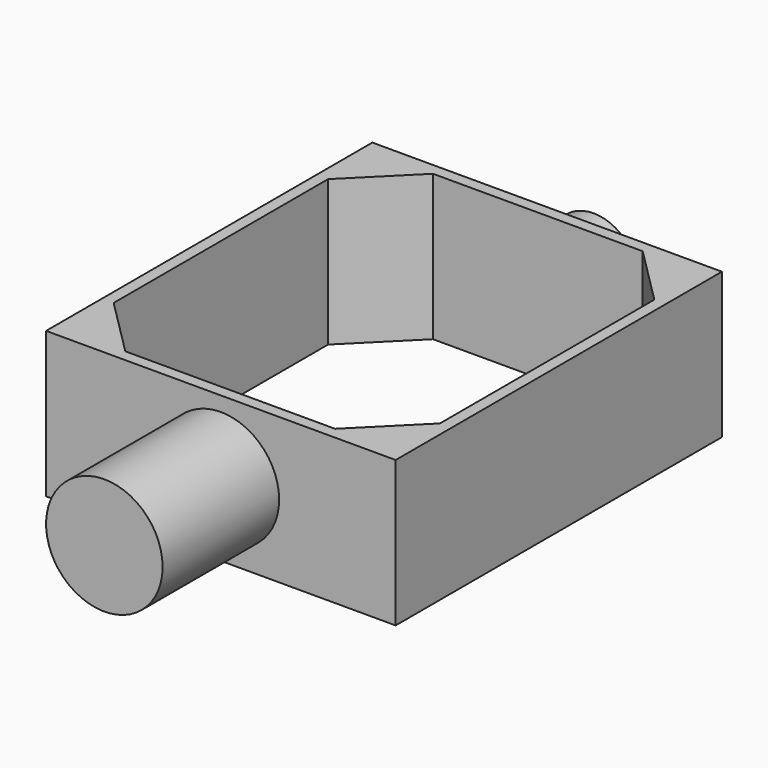
from build123d import *

# Parameters (mm, degrees)
F0_W     = 60
F0_H     = 70
F1_DEPTH = 25
F2_R     = 10
F3_DEPTH = 25
F4_R     = 7.5
F4_R_2   = 0.5
F5_DEPTH = 10


with BuildPart() as f1:
    # F0 (on Top) → F1 (new body)
    with BuildSketch(Plane.XY):
        Rectangle(F0_W, F0_H)
        Polygon((18, 33), (28, 23), (28, -23), (18, -33), (-18, -33), (-28, -23), (-28, 23), (-18, 33), align=None, mode=Mode.SUBTRACT)
    extrude(amount=F1_DEPTH)

    # F2 (on face) → F3 (join)
    with BuildSketch(Plane.XZ.offset(35)):
        with Locations((0, 12.5)):
            Circle(F2_R)
    extrude(amount=F3_DEPTH)

    # F4 (on face) → F5 (join)
    with BuildSketch(Plane(origin=(0, 35, 0), x_dir=(-1, 0, 0), z_dir=(0, 1, 0))):
        with Locations((0, 12.5)):
            Circle(F4_R)
        with Locations((0, 12.5)):
            Circle(F4_R_2, mode=Mode.SUBTRACT)
    extrude(amount=F5_DEPTH)


solid = f1.part
